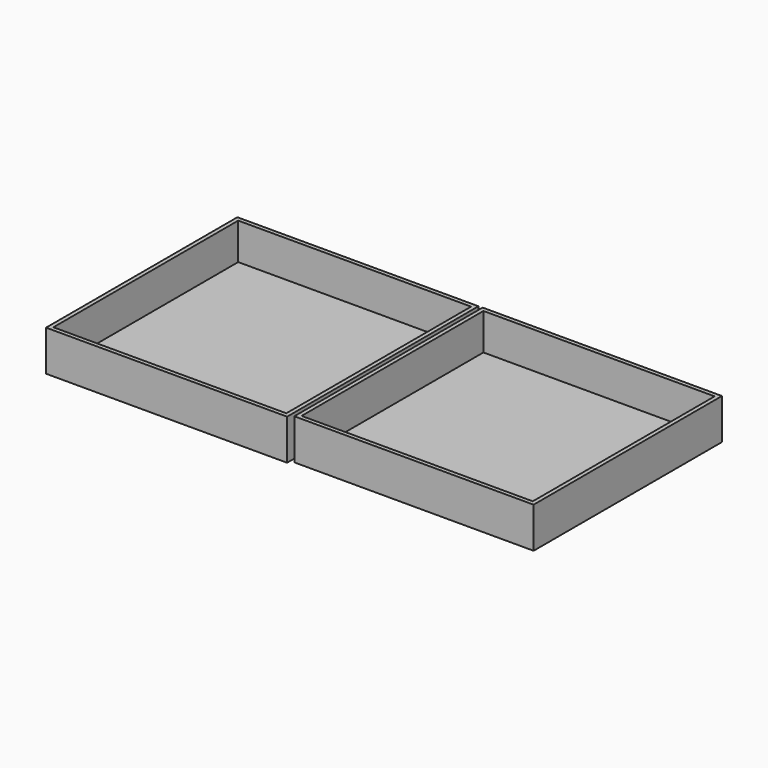
from build123d import *

# Parameters (mm, degrees)
F0_W     = 150.821939
F0_H     = 149.639666
F1_DEPTH = 25.4
F2_T     = -2.54
F3_W     = 149.751067
F3_H     = 147.307307
F4_DEPTH = 25.4
F5_T     = -2.54


with BuildPart() as f1:
    # F0 (on Top) → F1 (new body)
    with BuildSketch(Plane.XY):
        with Locations((1.594313, 0.39912)):
            Rectangle(F0_W, F0_H)
    extrude(amount=F1_DEPTH)

    # F2
    f2_openings = [f1.faces().sort_by_distance(p)[0] for p in [
        (1.594312, 0.39912, 25.4),
    ]]
    offset(amount=F2_T, openings=f2_openings)


with BuildPart() as f4:
    # F3 (on Top) → F4 (new body)
    with BuildSketch(Plane.XY):
        with Locations((154.366419, 1.750521)):
            Rectangle(F3_W, F3_H)
    extrude(amount=F4_DEPTH)

    # F5
    f5_openings = [f4.faces().sort_by_distance(p)[0] for p in [
        (154.366419, 1.750521, 25.4),
    ]]
    offset(amount=F5_T, openings=f5_openings)


solid = Compound([f1.part, f4.part])
